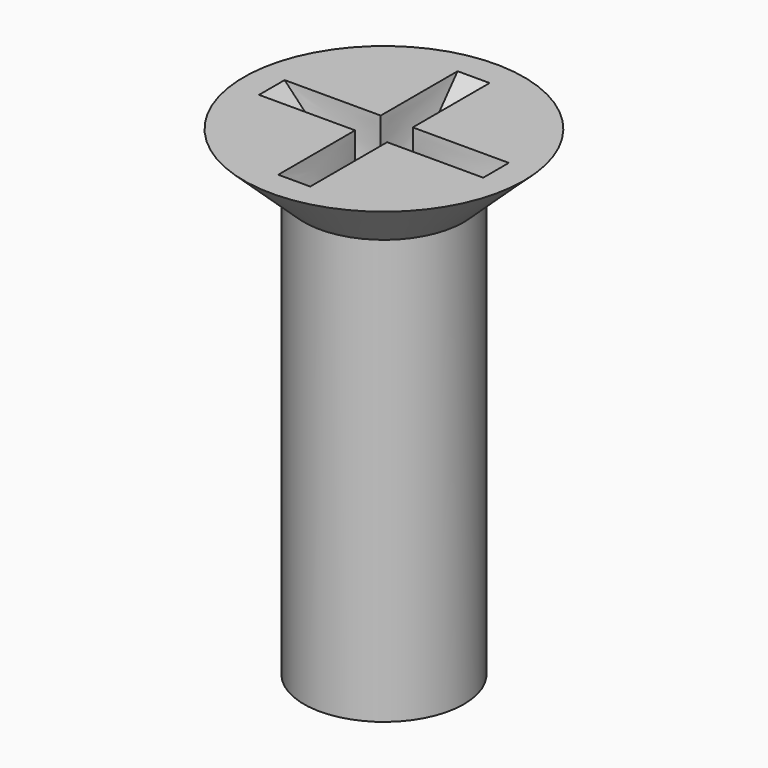
from build123d import *

# Parameters (mm, degrees)
CYLINDER022_R     = 1
CYLINDER022_DEPTH = 5.5
SKETCH009_W       = 0.4
SKETCH009_H       = 0.4


with BuildPart() as part:
    # Cylinder022 → Cylinder022 (join)
    with BuildSketch(Plane.XY.offset(4)):
        Circle(CYLINDER022_R)
    extrude(amount=CYLINDER022_DEPTH)

    # Cone002 → Cone002 (revolve)
    with BuildSketch(Plane(origin=(0, 0, 9.3), x_dir=(1, 0, 0), z_dir=(0, -1, 0))):
        Polygon((0, 0), (1, 0), (1.75, 0.7), (0, 0.7), align=None)
    revolve(axis=Axis((0, 0, 9.3), (0, 0, 1)))

    # Sketch008 (on Face4 of Cone002) → SubtractiveLoft section 0
    with BuildSketch(Plane.XY.offset(10)):
        Polygon((-0.2, 0.2), (-0.2, 1.4), (0.2, 1.4), (0.2, 0.2), (1.4, 0.2), (1.4, -0.2), (0.2, -0.2), (0.2, -1.4), (-0.2, -1.4), (-0.2, -0.2), (-1.4, -0.2), (-1.4, 0.2), align=None)
    # Sketch009 (on Face4 of Cone002) → SubtractiveLoft section 1
    with BuildSketch(Plane.XY.offset(9)):
        Rectangle(SKETCH009_W, SKETCH009_H)
    loft(mode=Mode.SUBTRACT)


with BuildPart() as part_1:
    # Body010 placement: moved
    add(part.part.moved(Location((16, 0.5, -3.5))))


solid = part_1.part
